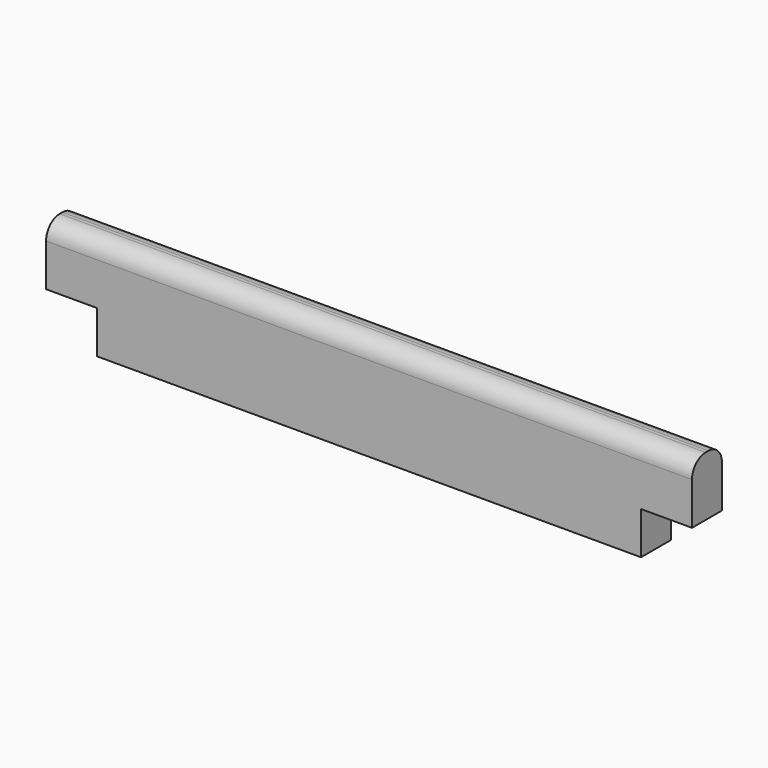
from build123d import *

# Parameters (mm, degrees)
F0_W     = 96.52
F0_H     = 15.24
F1_DEPTH = 5.588
F2_W     = 7.62
F2_H     = 6.35
F3_DEPTH = 25.4
F4_R     = 2.54


with BuildPart() as f1:
    # F0 (on Front) → F1 (new body)
    with BuildSketch(Plane.XZ):
        with Locations((48.26, -7.62)):
            Rectangle(F0_W, F0_H)
    extrude(amount=F1_DEPTH)

    # F2 (on face) → F3 (cut)
    with BuildSketch(Plane.XZ.offset(5.588)):
        with Locations((92.71, -12.065)):
            Rectangle(F2_W, F2_H)
        with Locations((3.81, -12.065)):
            Rectangle(F2_W, F2_H)
    extrude(amount=-F3_DEPTH, mode=Mode.SUBTRACT)

    # F4
    f4_edges = [f1.edges().sort_by_distance(p)[0] for p in [
        (48.26, 0, 0),
        (48.26, -5.588, 0),
    ]]
    fillet(f4_edges, radius=F4_R)


solid = f1.part
